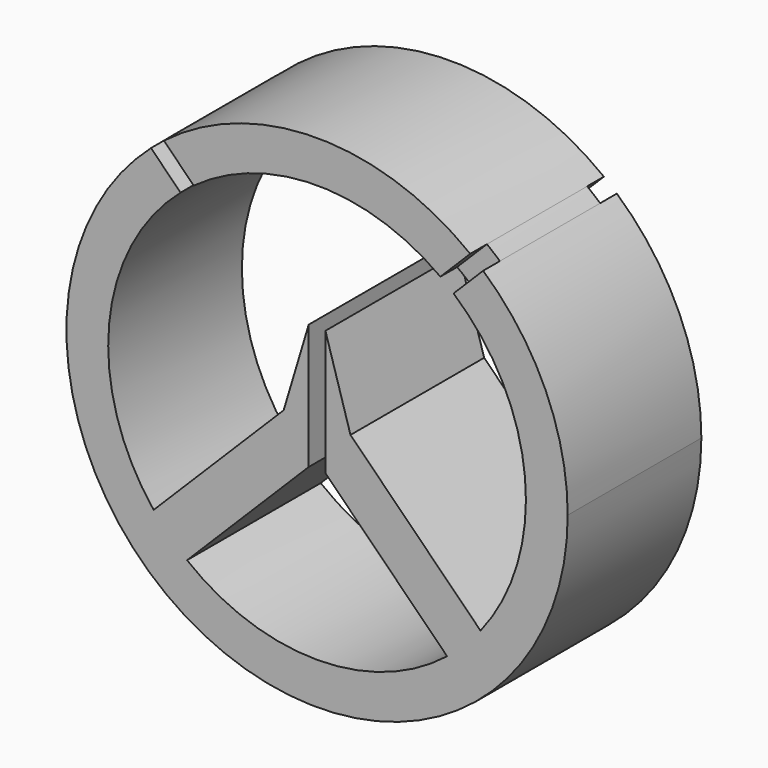
from build123d import *

# Parameters (mm, degrees)
F1_DEPTH = 10
F2_DEPTH = 10
F3_DEPTH = 7.5


with BuildPart() as f1:
    # F0 (on Front) → F1 (new body, symmetric)
    with BuildSketch(Plane.XZ):
        with BuildLine():
            ThreePointArc((-19.880874, 22.466661), (-12.320182, -27.353484), (30, 0))
            ThreePointArc((30, 0), (27.353484, 12.320182), (19.880874, 22.466661))
            Line((19.880874, 22.466661), (16.337434, 18.92322))
            ThreePointArc((16.337434, 18.92322), (24.891288, 2.328897), (19.564168, -15.564168))
            Line((19.564168, -15.564168), (4, 0))
            Line((4, 0), (1, 10))
            Line((1, 10), (1, -5))
            Line((1, -5), (15.564168, -19.564168))
            ThreePointArc((15.564168, -19.564168), (0, -25), (-15.564168, -19.564168))
            Line((-15.564168, -19.564168), (-1, -5))
            Line((-1, -5), (-1, 10))
            Line((-1, 10), (-4, 0))
            Line((-4, 0), (-19.564168, -15.564168))
            ThreePointArc((-19.564168, -15.564168), (-24.891288, 2.328897), (-16.337434, 18.92322))
            Line((-16.337434, 18.92322), (-19.880874, 22.466661))
        make_face()
    extrude(amount=F1_DEPTH, both=True)


with BuildPart() as f2:
    # F0 (on Front) → F2 (new body, symmetric)
    with BuildSketch(Plane.XZ):
        with BuildLine():
            Line((14.762054, 20.176267), (18.332655, 23.746868))
            ThreePointArc((18.332655, 23.746868), (0, 30), (-18.332655, 23.746868))
            Line((-18.332655, 23.746868), (-14.762054, 20.176267))
            ThreePointArc((-14.762054, 20.176267), (0, 25), (14.762054, 20.176267))
        make_face()
    extrude(amount=F2_DEPTH, both=True)


with BuildPart() as f3:
    # F0 (on Front) → F3 (new body, symmetric)
    with BuildSketch(Plane.XZ):
        with BuildLine():
            Line((16.337434, 18.92322), (19.880874, 22.466661))
            ThreePointArc((19.880874, 22.466661), (19.117484, 23.119728), (18.332655, 23.746868))
            Line((18.332655, 23.746868), (14.762054, 20.176267))
            ThreePointArc((14.762054, 20.176267), (15.56236, 19.565606), (16.337434, 18.92322))
        make_face()
        with BuildLine():
            ThreePointArc((-18.332655, 23.746868), (-19.117484, 23.119728), (-19.880874, 22.466661))
            Line((-19.880874, 22.466661), (-16.337434, 18.92322))
            ThreePointArc((-16.337434, 18.92322), (-15.56236, 19.565606), (-14.762054, 20.176267))
            Line((-14.762054, 20.176267), (-18.332655, 23.746868))
        make_face()
    extrude(amount=F3_DEPTH, both=True)


solid = Compound([f1.part, f2.part, f3.part])
